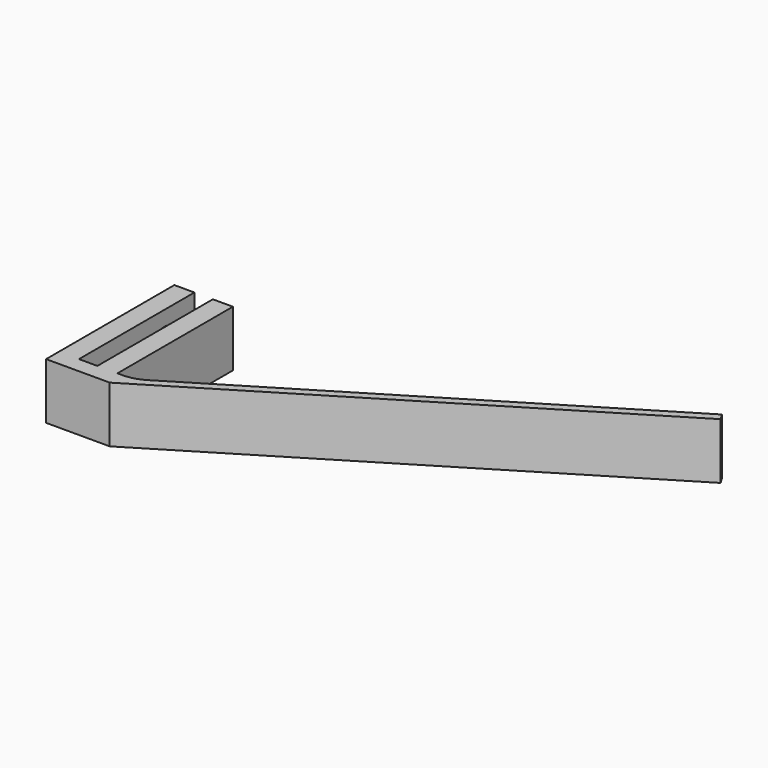
from build123d import *

# Parameters (mm, degrees)
F1_DEPTH = 7
F2_R     = 1.65
F3_DEPTH = 2.5


with BuildPart() as f1:
    # F0 (on Top) → F1 (new body)
    with BuildSketch(Plane.XY):
        with BuildLine():
            Line((0, 20), (0, 0))
            Line((0, 0), (7.933292, 0))
            Line((7.933292, 0), (59.216541, 31.145279))
            Line((59.216541, 31.145279), (58.697453, 32))
            Line((58.697453, 32), (10.49607, 2.726396))
            ThreePointArc((10.49607, 2.726396), (9.248217, 2.185022), (7.90063, 2))
            Line((7.90063, 2), (7.3, 2))
            Line((7.3, 2), (7.3, 20))
            Line((7.3, 20), (4.8, 20))
            Line((4.8, 20), (4.8, 2))
            Line((4.8, 2), (2.5, 2))
            Line((2.5, 2), (2.5, 20))
            Line((2.5, 20), (0, 20))
        make_face()
    extrude(amount=F1_DEPTH)

    # F2 (on face) → F3 (cut, through all)
    with BuildSketch(Plane(origin=(0, 0, 0), x_dir=(0, -1, 0), z_dir=(-1, 0, 0))):
        with Locations((-15.35, 3.5)):
            Circle(F2_R)
    extrude(amount=-F3_DEPTH, mode=Mode.SUBTRACT)


solid = f1.part
